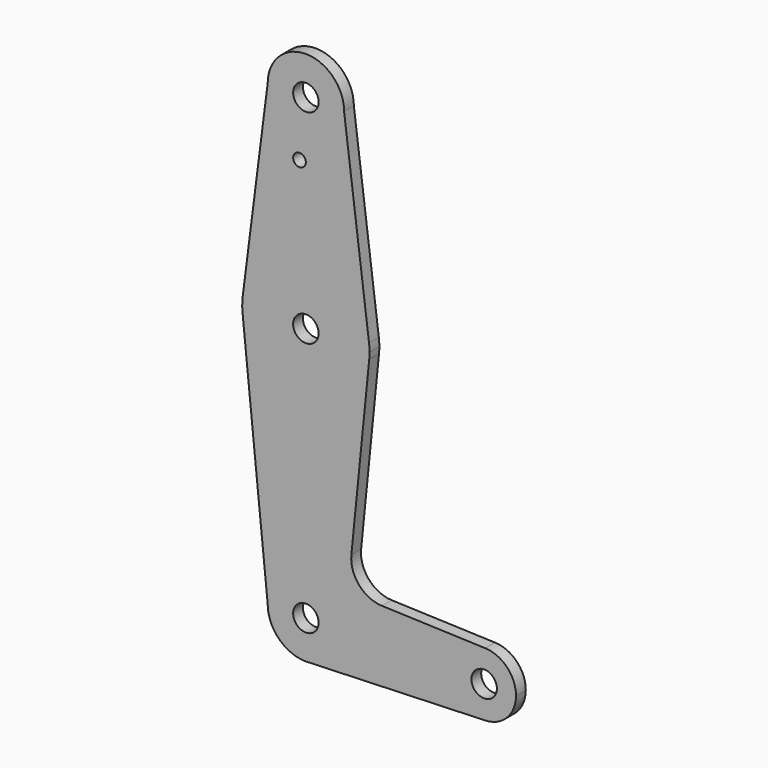
from build123d import *

# Parameters (mm, degrees)
F0_R     = 3.175
F0_R_2   = 1.5875
F1_DEPTH = 3.048


with BuildPart() as f1:
    # F0 (on Front) → F1 (new body)
    with BuildSketch(Plane.XZ):
        with BuildLine():
            ThreePointArc((-9.525, 114.3), (0, 104.775), (9.525, 114.3))
            ThreePointArc((9.525, 114.3), (0, 123.825), (-9.525, 114.3))
        make_face()
        with Locations((0, 114.3)):
            Circle(F0_R, mode=Mode.SUBTRACT)
        with BuildLine():
            Line((15.747457, 65.508289), (9.525, 114.3))
            ThreePointArc((9.525, 114.3), (0, 104.775), (-9.525, 114.3))
            Line((-9.525, 114.3), (-15.747457, 65.508289))
            ThreePointArc((-15.747457, 65.508289), (0, 79.375), (15.747457, 65.508289))
        make_face()
        with Locations((-1.5875, 100.0252)):
            Circle(F0_R_2, mode=Mode.SUBTRACT)
        with BuildLine():
            ThreePointArc((15.875, 63.5), (15.843082, 64.506168), (15.747457, 65.508289))
            ThreePointArc((15.747457, 65.508289), (0, 79.375), (-15.747457, 65.508289))
            ThreePointArc((-15.747457, 65.508289), (-15.873668, 63.705667), (-15.794203, 61.90038))
            ThreePointArc((-15.794203, 61.90038), (0.006091, 47.625001), (15.795426, 61.9125))
            ThreePointArc((15.795426, 61.9125), (15.855094, 62.705253), (15.875, 63.5))
        make_face()
        with Locations((0, 63.5)):
            Circle(F0_R, mode=Mode.SUBTRACT)
        with BuildLine():
            ThreePointArc((15.795426, 61.9125), (0.006091, 47.625001), (-15.794203, 61.90038))
            Line((-15.794203, 61.90038), (-9.525, 0))
            ThreePointArc((-9.525, 0), (0, 9.525), (9.525, 0))
            ThreePointArc((9.525, 0), (6.970557, -6.491299), (0.677344, -9.500886))
            Line((0.677344, -9.500886), (44.732405, -7.932475))
            ThreePointArc((44.732405, -7.932475), (36.5125, 0.000539), (44.733482, 7.932436))
            Line((44.733482, 7.932436), (18.9676, 8.853234))
            ThreePointArc((18.9676, 8.853234), (13.2612, 11.571359), (11.341187, 17.593382))
            Line((11.341187, 17.593382), (15.795426, 61.9125))
        make_face()
        with BuildLine():
            ThreePointArc((9.525, 0), (0, 9.525), (-9.525, 0))
            ThreePointArc((-9.525, 0), (-6.735192, -6.735192), (0, -9.525))
            Line((0, -9.525), (0.677344, -9.500886))
            ThreePointArc((0.677344, -9.500886), (6.970557, -6.491299), (9.525, 0))
        make_face()
        Circle(F0_R, mode=Mode.SUBTRACT)
        with BuildLine():
            Line((0.677344, -9.500886), (0, -9.525))
            ThreePointArc((0, -9.525), (0.338886, -9.51897), (0.677344, -9.500886))
        make_face()
        with BuildLine():
            ThreePointArc((52.3875, 0), (50.162007, 5.511523), (44.733482, 7.932436))
            ThreePointArc((44.733482, 7.932436), (36.5125, 0.000539), (44.732405, -7.932475))
            ThreePointArc((44.732405, -7.932475), (50.161633, -5.51191), (52.3875, 0))
        make_face()
        with Locations((44.45, 0)):
            Circle(F0_R, mode=Mode.SUBTRACT)
    extrude(amount=F1_DEPTH)


solid = f1.part
